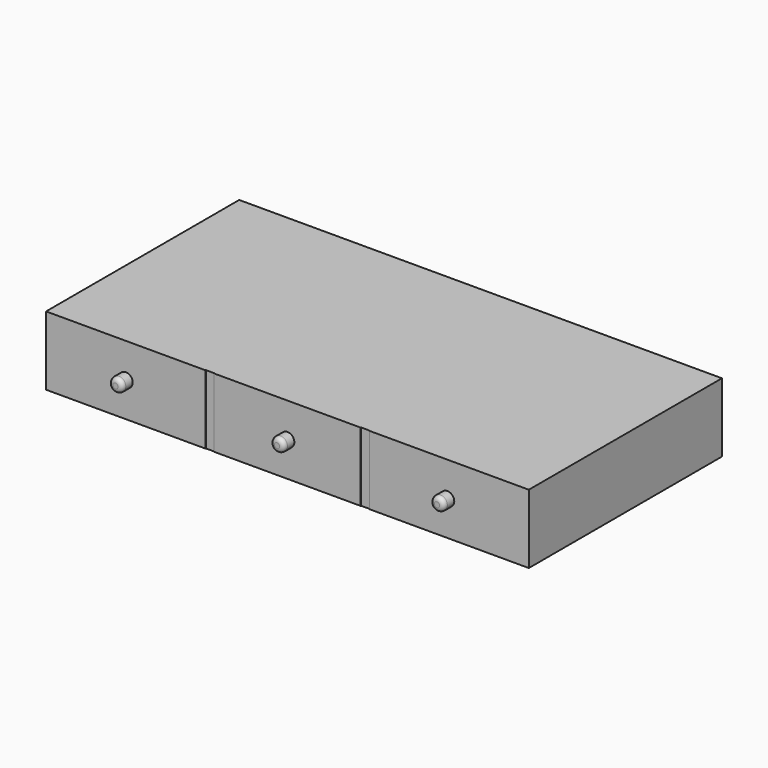
from build123d import *

# Parameters (mm, degrees)
F0_W     = 560
F0_H     = 80
F1_DEPTH = 280
F2_W     = 10
F2_H     = 80
F3_DEPTH = 0.5
F4_R     = 8
F5_DEPTH = 15
F6_R     = 5


with BuildPart() as f1:
    # F0 (on Front) → F1 (new body)
    with BuildSketch(Plane.XZ):
        Rectangle(F0_W, F0_H)
    extrude(amount=F1_DEPTH)

    # F2 (on face) → F3 (cut)
    with BuildSketch(Plane.XZ.offset(280)):
        with Locations((-90, 0)):
            Rectangle(F2_W, F2_H)
        with Locations((90, 0)):
            Rectangle(F2_W, F2_H)
    extrude(amount=-F3_DEPTH, mode=Mode.SUBTRACT)

    # F4 (on face) → F5 (join)
    with BuildSketch(Plane.XZ.offset(280)):
        with Locations((-187.5, 0)):
            Circle(F4_R)
        Circle(F4_R)
        with Locations((185.5, 0)):
            Circle(F4_R)
    extrude(amount=F5_DEPTH)

    # F6
    f6_edges = [f1.edges().sort_by_distance(p)[0] for p in [
        (-195.5, -295, 0),
        (-8, -295, 0),
        (177.5, -295, 0),
    ]]
    fillet(f6_edges, radius=F6_R)


solid = f1.part
